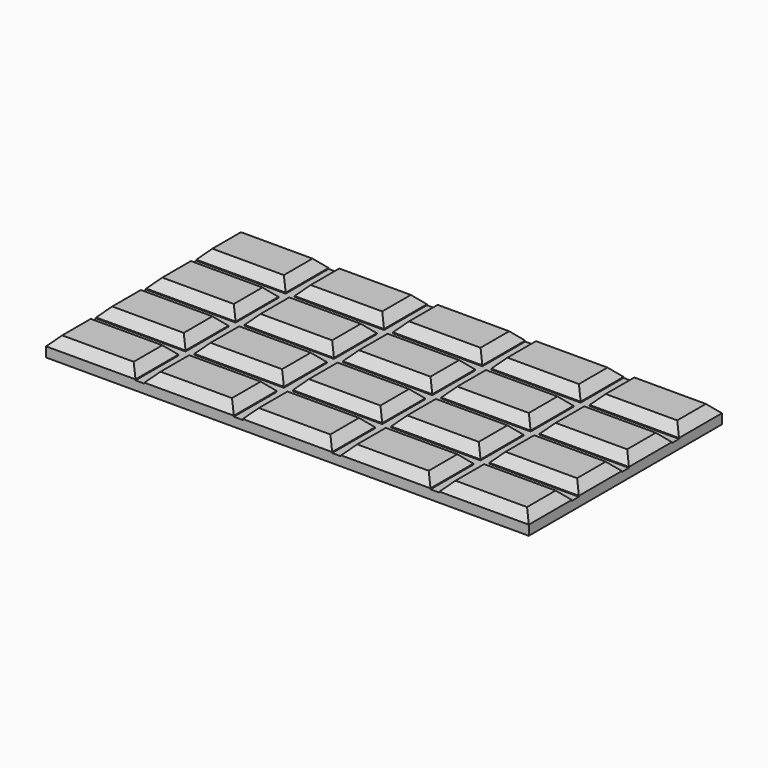
from build123d import *

# Parameters (mm, degrees)
BOX001_W      = 54
BOX001_H      = 27
BOX001_DEPTH  = 1
BOX_W         = 10
BOX_H         = 6
BOX_DEPTH     = 1.1
CHAMFER_SIZE  = 1
ARRAY_X_COUNT = 5
ARRAY_X_PITCH = 11
ARRAY_Y_COUNT = 4
ARRAY_Y_PITCH = 7


with BuildPart() as cub_base:
    # Box001 → Box001 (new body)
    with BuildSketch(Plane.XY):
        with Locations((27, 13.5)):
            Rectangle(BOX001_W, BOX001_H)
    extrude(amount=BOX001_DEPTH)


with BuildPart() as fusion:
    # Box → Box (new body)
    with BuildSketch(Plane.XY):
        with Locations((5, 3)):
            Rectangle(BOX_W, BOX_H)
    extrude(amount=BOX_DEPTH)

    # Chamfer
    chamfer_edges = [fusion.edges().sort_by_distance(p)[0] for p in [
        (0, 3, 1.1),
        (10, 3, 1.1),
        (5, 0, 1.1),
        (5, 6, 1.1),
    ]]
    chamfer(chamfer_edges, length=CHAMFER_SIZE)

    # Array X: Fusion ×5


with BuildPart() as fusion_1:
    add(fusion.part)
    with Locations(*[(i * ARRAY_X_PITCH, 0, 0) for i in range(1, ARRAY_X_COUNT)]):
        add(fusion.part)

    # Array Y: Fusion ×4


with BuildPart() as fusion_2:
    add(fusion_1.part)
    with Locations(*[(0, i * ARRAY_Y_PITCH, 0) for i in range(1, ARRAY_Y_COUNT)]):
        add(fusion_1.part)


with BuildPart() as fusion_3:
    # Array placement: moved
    add(fusion_2.part.moved(Location((0, 0, 1))))

    # Fusion: union cub base
    add(cub_base.part)


solid = fusion_3.part
